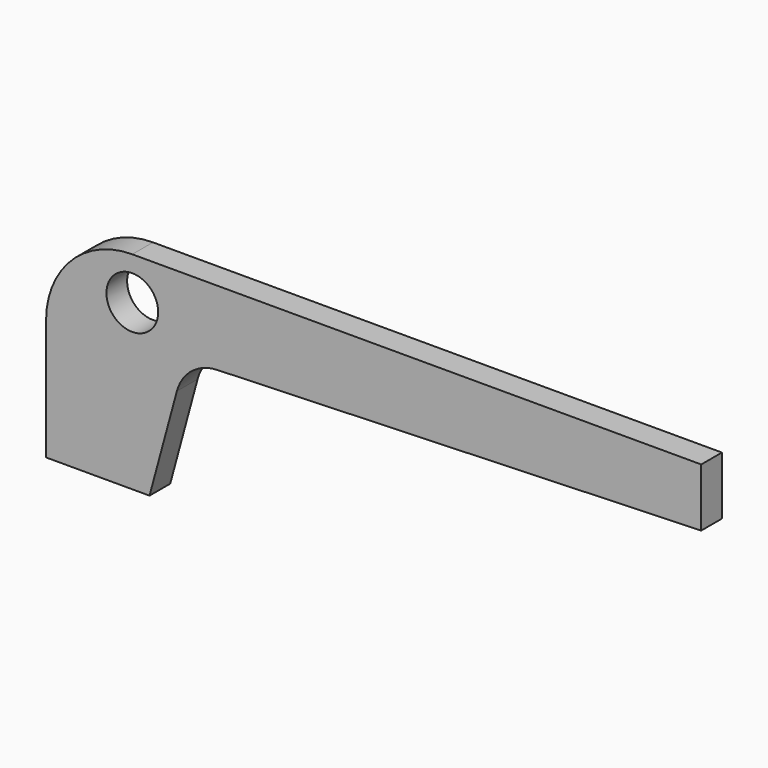
from build123d import *

# Parameters (mm, degrees)
F1_DEPTH = 2.38125
F2_R     = 2.38125
F3_DEPTH = 2.38225


with BuildPart() as f1:
    # F0 (on Front) → F1 (new body)
    with BuildSketch(Plane.XZ):
        with BuildLine():
            Line((60.325, 19.05), (7.9375, 19.05))
            ThreePointArc((7.9375, 19.05), (2.32484, 16.72516), (0, 11.1125))
            Line((0, 11.1125), (0, 0))
            Line((0, 0), (9.525, 0))
            Line((9.525, 0), (12.044585, 9.291483))
            ThreePointArc((12.044585, 9.291483), (13.412045, 11.36483), (15.744098, 12.219374))
            Line((15.744098, 12.219374), (60.325, 13.6906))
            Line((60.325, 13.6906), (60.325, 19.05))
        make_face()
    extrude(amount=F1_DEPTH)

    # F2 (on face) → F3 (cut, through all)
    with BuildSketch(Plane.XZ.offset(2.38125)):
        with Locations((7.9375, 15.1384)):
            Circle(F2_R)
    extrude(amount=-F3_DEPTH, mode=Mode.SUBTRACT)


solid = f1.part
